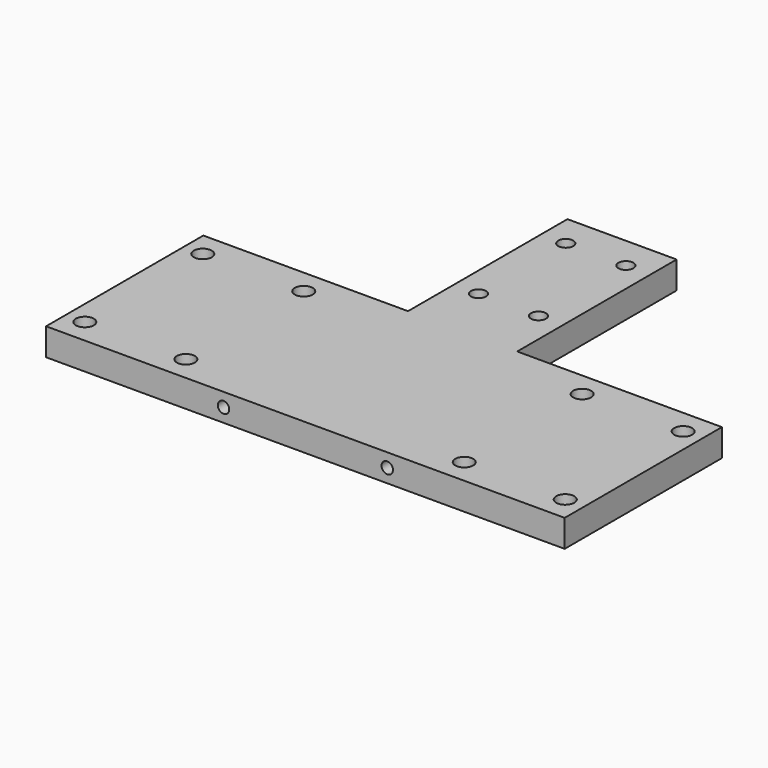
from build123d import *

# Parameters (mm, degrees)
SKETCH_W               = 190
SKETCH_H               = 72
PAD_DEPTH              = 10
SKETCH001_W            = 40
SKETCH001_H            = 10
PAD001_DEPTH           = 73
SKETCH002_R            = 3.3
HOLE_DEPTH             = 10.001
LINEARPATTERN_COUNT    = 2
LINEARPATTERN_PITCH    = 37
LINEARPATTERN001_COUNT = 2
LINEARPATTERN001_PITCH = 139
LINEARPATTERN002_COUNT = 2
LINEARPATTERN002_PITCH = 176
SKETCH003_R            = 3.3
HOLE001_DEPTH          = 10.001
LINEARPATTERN003_COUNT = 2
LINEARPATTERN003_PITCH = 37
LINEARPATTERN004_COUNT = 2
LINEARPATTERN004_PITCH = 139
LINEARPATTERN005_COUNT = 2
LINEARPATTERN005_PITCH = 176
SKETCH004_R            = 2.75
HOLE002_DEPTH          = 10.001
LINEARPATTERN006_COUNT = 2
LINEARPATTERN006_PITCH = 22
LINEARPATTERN007_COUNT = 2
LINEARPATTERN007_PITCH = 40
SKETCH005_R            = 2.75
HOLE003_DEPTH          = 10.001
SKETCH006_R            = 2.1
HOLE004_DEPTH          = 25
LINEARPATTERN008_COUNT = 2
LINEARPATTERN008_PITCH = 60


with BuildPart() as part:
    # Sketch → Pad (new body)
    with BuildSketch(Plane.XY):
        with Locations((95, 36)):
            Rectangle(SKETCH_W, SKETCH_H)
    extrude(amount=PAD_DEPTH)

    # Sketch001 (on Face3 of Pad) → Pad001 (join)
    with BuildSketch(Plane(origin=(0, 72, 0), x_dir=(-1, 0, 0), z_dir=(0, 1, 0))):
        with Locations((-95, 5)):
            Rectangle(SKETCH001_W, SKETCH001_H)
    extrude(amount=PAD001_DEPTH)

    # Sketch002 (on Face5 of Pad001) → Hole (cut, through all)
    with BuildSketch(Plane.XY.offset(10)):
        with Locations((7, 9)):
            Circle(SKETCH002_R)
    hole = extrude(amount=-HOLE_DEPTH, mode=Mode.SUBTRACT)

    # LinearPattern: Hole ×2
    with Locations(*[(i * LINEARPATTERN_PITCH, 0, 0) for i in range(1, LINEARPATTERN_COUNT)]):
        add(hole, mode=Mode.SUBTRACT)

    # LinearPattern001: Hole ×2
    with Locations(*[(i * LINEARPATTERN001_PITCH, 0, 0) for i in range(1, LINEARPATTERN001_COUNT)]):
        add(hole, mode=Mode.SUBTRACT)

    # LinearPattern002: Hole ×2
    with Locations(*[(i * LINEARPATTERN002_PITCH, 0, 0) for i in range(1, LINEARPATTERN002_COUNT)]):
        add(hole, mode=Mode.SUBTRACT)

    # Sketch003 (on Face5 of LinearPattern002) → Hole001 (cut, through all)
    with BuildSketch(Plane.XY.offset(10)):
        with Locations((7, 63)):
            Circle(SKETCH003_R)
    hole001 = extrude(amount=-HOLE001_DEPTH, mode=Mode.SUBTRACT)

    # LinearPattern003: Hole001 ×2
    with Locations(*[(i * LINEARPATTERN003_PITCH, 0, 0) for i in range(1, LINEARPATTERN003_COUNT)]):
        add(hole001, mode=Mode.SUBTRACT)

    # LinearPattern004: Hole001 ×2
    with Locations(*[(i * LINEARPATTERN004_PITCH, 0, 0) for i in range(1, LINEARPATTERN004_COUNT)]):
        add(hole001, mode=Mode.SUBTRACT)

    # LinearPattern005: Hole001 ×2
    with Locations(*[(i * LINEARPATTERN005_PITCH, 0, 0) for i in range(1, LINEARPATTERN005_COUNT)]):
        add(hole001, mode=Mode.SUBTRACT)

    # Sketch004 (on Face17 of LinearPattern005) → Hole002 (cut, through all)
    with BuildSketch(Plane.XY.offset(10)):
        with Locations((84, 93)):
            Circle(SKETCH004_R)
    hole002 = extrude(amount=-HOLE002_DEPTH, mode=Mode.SUBTRACT)

    # LinearPattern006: Hole002 ×2
    with Locations(*[(i * LINEARPATTERN006_PITCH, 0, 0) for i in range(1, LINEARPATTERN006_COUNT)]):
        add(hole002, mode=Mode.SUBTRACT)

    # LinearPattern007: Hole002 ×2
    with Locations(*[(0, i * LINEARPATTERN007_PITCH, 0) for i in range(1, LINEARPATTERN007_COUNT)]):
        add(hole002, mode=Mode.SUBTRACT)

    # Sketch005 (on Face17 of LinearPattern007) → Hole003 (cut, through all)
    with BuildSketch(Plane.XY.offset(10)):
        with Locations((106, 133)):
            Circle(SKETCH005_R)
    extrude(amount=-HOLE003_DEPTH, mode=Mode.SUBTRACT)

    # Sketch006 (on Face1 of Hole003) → Hole004 (cut)
    with BuildSketch(Plane.XZ):
        with Locations((65, 5)):
            Circle(SKETCH006_R)
    hole004 = extrude(amount=-HOLE004_DEPTH, mode=Mode.SUBTRACT)

    # LinearPattern008: Hole004 ×2
    with Locations(*[(i * LINEARPATTERN008_PITCH, 0, 0) for i in range(1, LINEARPATTERN008_COUNT)]):
        add(hole004, mode=Mode.SUBTRACT)


solid = part.part
